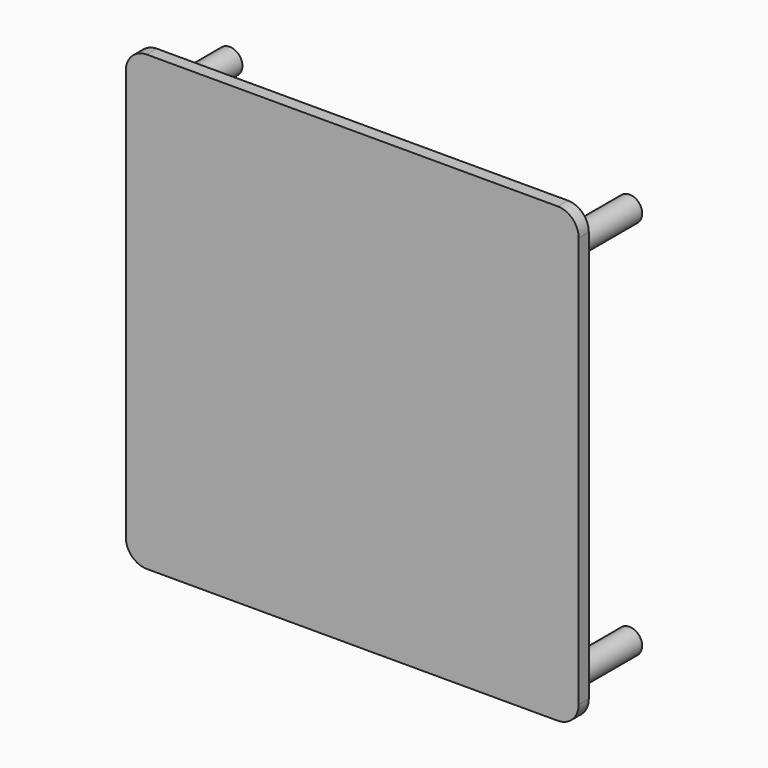
from build123d import *

# Parameters (mm, degrees)
F2_R     = 3
F3_DEPTH = 20
F4_DEPTH = 3


with BuildPart() as f3:
    # F2 (on Front) → F3 (new body)
    with BuildSketch(Plane.XZ):
        with Locations((-47.502529, 45.190532)):
            Circle(F2_R)
        with Locations((47.484789, 45.186255)):
            Circle(F2_R)
        with Locations((47.471374, -45.228213)):
            Circle(F2_R)
        with Locations((-47.472939, -45.215879)):
            Circle(F2_R)
    extrude(amount=-F3_DEPTH)


with BuildPart() as f4:
    # F1 (on Front) → F4 (new body)
    with BuildSketch(Plane.XZ):
        with BuildLine():
            Line((53.8, -47.1), (53.8, 50.5))
            ThreePointArc((53.8, 50.5), (52.335534, 54.035534), (48.8, 55.5))
            Line((48.8, 55.5), (-48.8, 55.5))
            ThreePointArc((-48.8, 55.5), (-52.335534, 54.035534), (-53.8, 50.5))
            Line((-53.8, 50.5), (-53.8, -47.1))
            ThreePointArc((-53.8, -47.1), (-52.335534, -50.635534), (-48.8, -52.1))
            Line((-48.8, -52.1), (48.8, -52.1))
            ThreePointArc((48.8, -52.1), (52.335534, -50.635534), (53.8, -47.1))
        make_face()
    extrude(amount=F4_DEPTH)


solid = Compound([f3.part, f4.part])
